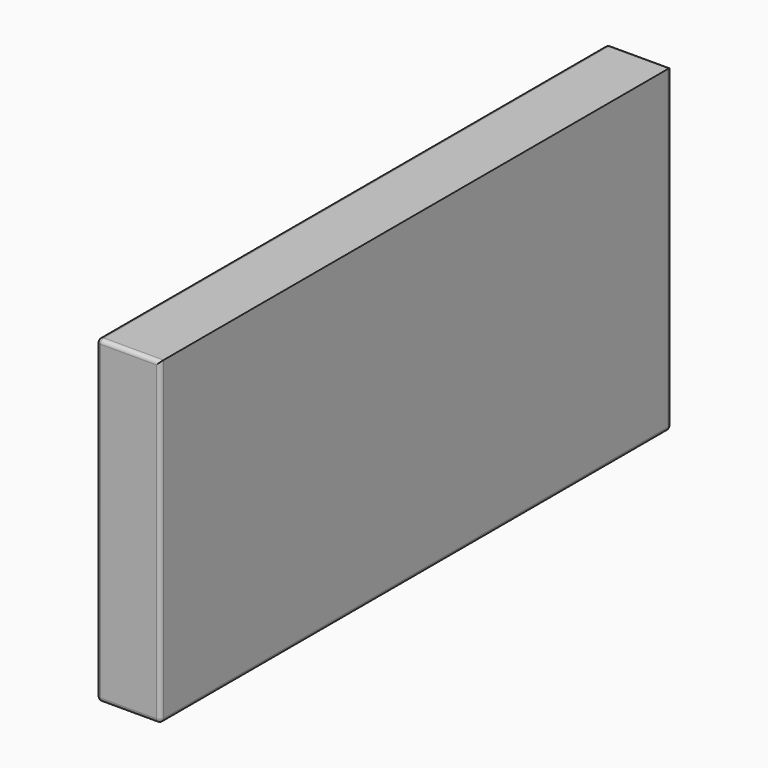
from build123d import *

# Parameters (mm, degrees)
F0_W     = 800
F0_H     = 400
F1_DEPTH = 80
F2_R     = 5


with BuildPart() as f1:
    # F0 (on Right) → F1 (new body)
    with BuildSketch(Plane.YZ):
        Rectangle(F0_W, F0_H)
    extrude(amount=-F1_DEPTH)

    # F2
    f2_edges = [f1.edges().sort_by_distance(p)[0] for p in [
        (-80, 0, 200),
        (-80, -400, 0),
        (0, -400, 0),
        (0, 0, -200),
        (-80, 0, -200),
        (-80, 400, 0),
        (0, 400, 0),
        (-40, 400, 200),
        (-40, 400, -200),
        (-40, -400, 200),
        (-40, -400, -200),
    ]]
    fillet(f2_edges, radius=F2_R)


solid = f1.part
